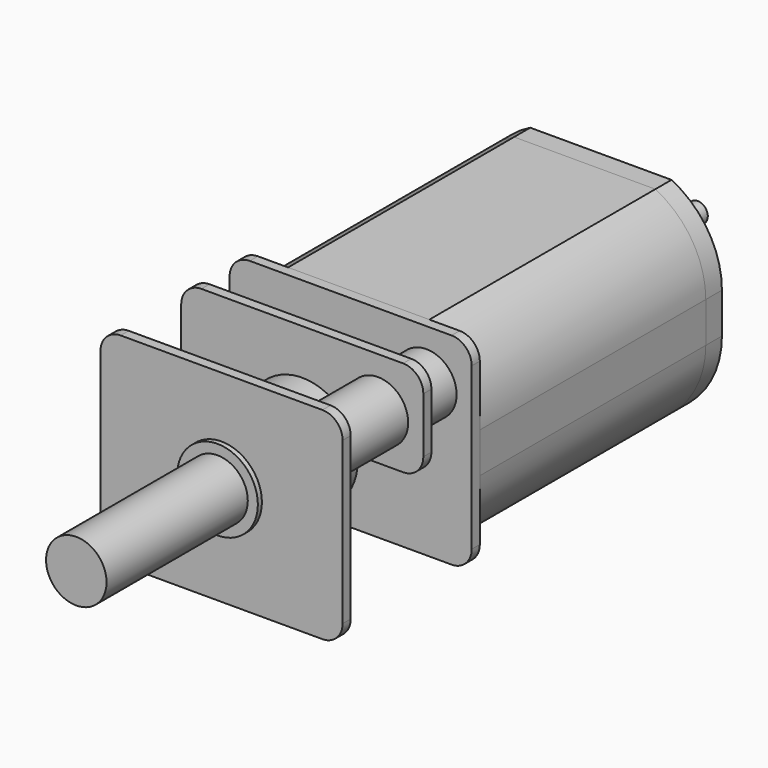
from build123d import *

# Parameters (mm, degrees)
PAD_DEPTH       = 14
POCKET_DEPTH    = 13.5
SKETCH002_R     = 1.5
POCKET001_DEPTH = 14.001
PAD001_DEPTH    = 1
SKETCH004_R     = 2.5
PAD002_DEPTH    = 1
SKETCH005_R     = 1.5
POCKET002_DEPTH = 2.001
SKETCH006_W     = 12
SKETCH006_H     = 10
PAD003_DEPTH    = 0.5
SKETCH007_R     = 1.5
PAD004_DEPTH    = 7.7
SKETCH008_W     = 12
SKETCH008_H     = 10
PAD005_DEPTH    = 0.5
SKETCH009_W     = 12
SKETCH009_H     = 10
PAD006_DEPTH    = 0.5
SKETCH010_R     = 2
PAD007_DEPTH    = 0.25
SKETCH011_R     = 2.5
PAD008_DEPTH    = 3
SKETCH012_R     = 1.5
POCKET003_DEPTH = 5
POCKET004_DEPTH = 1
FILLET_R        = 1
SKETCH014_R     = 1.5
POCKET005_DEPTH = 2
SKETCH015_R     = 1.5
PAD009_DEPTH    = 18
SKETCH016_R     = 1.5
PAD010_DEPTH    = 14
SKETCH017_R     = 2.75
PAD011_DEPTH    = 1.5
SKETCH021_R     = 0.5
PAD014_DEPTH    = 5


with BuildPart() as motorshell:
    # Sketch → Pad (new body)
    with BuildSketch(Plane.XZ):
        with BuildLine():
            Line((-3.5, 5), (3.5, 5))
            ThreePointArc((6, 1), (5.323594, 3.358497), (3.5, 5))
            Line((6, 1), (6, -1))
            ThreePointArc((3.5, -5), (5.323594, -3.358497), (6, -1))
            Line((-3.5, -5), (3.5, -5))
            ThreePointArc((-6, -1), (-5.323594, -3.358496), (-3.5, -5))
            Line((-6, 1), (-6, -1))
            ThreePointArc((-3.5, 5), (-5.323594, 3.358496), (-6, 1))
        make_face()
    extrude(amount=PAD_DEPTH)

    # Sketch001 → Pocket (cut)
    with BuildSketch(Plane.XZ):
        with BuildLine():
            Line((-3, 4.5), (3, 4.5))
            ThreePointArc((5.5, 1), (4.810812, 3.15058), (3, 4.5))
            Line((5.5, 1), (5.5, -1))
            ThreePointArc((3, -4.5), (4.810812, -3.15058), (5.5, -1))
            Line((-3, -4.5), (3, -4.5))
            ThreePointArc((-5.5, -1), (-4.810812, -3.15058), (-3, -4.5))
            Line((-5.5, -1), (-5.5, 1))
            ThreePointArc((-3, 4.5), (-4.810812, 3.15058), (-5.5, 1))
        make_face()
    extrude(amount=POCKET_DEPTH, mode=Mode.SUBTRACT)

    # Sketch002 → Pocket001 (cut, through all)
    with BuildSketch(Plane.XZ):
        Circle(SKETCH002_R)
    extrude(amount=POCKET001_DEPTH, mode=Mode.SUBTRACT)


with BuildPart() as backplate:
    # Sketch003 → Pad001 (new body)
    with BuildSketch(Plane.XZ):
        with BuildLine():
            Line((-3.5, 5), (3.5, 5))
            ThreePointArc((6, 1), (5.323593, 3.358495), (3.5, 5))
            Line((6, 1), (6, -1))
            ThreePointArc((3.5, -5), (5.323593, -3.358495), (6, -1))
            Line((3.5, -5), (-3.5, -5))
            ThreePointArc((-6, -1), (-5.323593, -3.358495), (-3.5, -5))
            Line((-6, -1), (-6, 1))
            ThreePointArc((-3.5, 5), (-5.323593, 3.358495), (-6, 1))
        make_face()
    extrude(amount=-PAD001_DEPTH)

    # Sketch004 (on Face10 of Pad001) → Pad002 (join)
    with BuildSketch(Plane(origin=(0, 1, 0), x_dir=(1, 0, 0), z_dir=(0, 1, 0))):
        Circle(SKETCH004_R)
    extrude(amount=PAD002_DEPTH)

    # Sketch005 (on Face12 of Pad002) → Pocket002 (cut, through all)
    with BuildSketch(Plane(origin=(0, 2, 0), x_dir=(1, 0, 0), z_dir=(0, 1, 0))):
        Circle(SKETCH005_R)
    extrude(amount=-POCKET002_DEPTH, mode=Mode.SUBTRACT)


with BuildPart() as gearplates:
    # Sketch006 (on DatumPlane) → Pad003 (new body)
    with BuildSketch(Plane.XZ.offset(14)):
        Rectangle(SKETCH006_W, SKETCH006_H)
    extrude(amount=PAD003_DEPTH)

    # Sketch007 (on Face6 of Pad003) → Pad004 (join)
    with BuildSketch(Plane.XZ.offset(14.5)):
        with Locations((3.75, 2.5)):
            Circle(SKETCH007_R)
        with Locations((-3.75, -2.5)):
            Circle(SKETCH007_R)
    extrude(amount=PAD004_DEPTH)

    # Sketch008 (on DatumPlane) → Pad005 (join)
    with BuildSketch(Plane.XZ.offset(17)):
        Rectangle(SKETCH008_W, SKETCH008_H)
    extrude(amount=PAD005_DEPTH)

    # Sketch009 (on DatumPlane) → Pad006 (join)
    with BuildSketch(Plane.XZ.offset(22)):
        Rectangle(SKETCH009_W, SKETCH009_H)
    extrude(amount=PAD006_DEPTH)

    # Sketch010 (on Face22 of Pad006) → Pad007 (join)
    with BuildSketch(Plane.XZ.offset(22.5)):
        Circle(SKETCH010_R)
    extrude(amount=PAD007_DEPTH)

    # Sketch011 (on Face17 of Pad007) → Pad008 (join)
    with BuildSketch(Plane(origin=(0, -22, 0), x_dir=(1, 0, 0), z_dir=(0, 1, 0))):
        Circle(SKETCH011_R)
    extrude(amount=PAD008_DEPTH)

    # Sketch012 (on Face26 of Pad008) → Pocket003 (cut)
    with BuildSketch(Plane.XZ.offset(22.75)):
        Circle(SKETCH012_R)
    extrude(amount=-POCKET003_DEPTH, mode=Mode.SUBTRACT)

    # Sketch013 (on Face14 of Pocket003) → Pocket004 (cut)
    with BuildSketch(Plane.XZ.offset(17.5)):
        with BuildLine():
            Line((7.000018, 0.25), (7.000018, -6))
            Line((7.000018, -6), (0.75, -6))
            Line((0.75, -2), (0.75, -6))
            ThreePointArc((3.000018, 0.25), (1.409016, -0.409003), (0.75, -2))
            Line((3.000018, 0.25), (7.000018, 0.25))
        make_face()
    extrude(amount=-POCKET004_DEPTH, mode=Mode.SUBTRACT)

    # Fillet
    fillet_edges = [gearplates.edges().sort_by_distance(p)[0] for p in [
        (6, -22.25, 5),
        (6, -17.25, 5),
        (6, -14.25, 5),
        (-6, -22.25, 5),
        (-6, -17.25, 5),
        (-6, -14.25, 5),
        (-6, -22.25, -5),
        (-6, -17.25, -5),
        (-6, -14.25, -5),
        (6, -22.25, -5),
        (6, -14.25, -5),
        (6, -17.25, 0.25),
        (0.75, -17.25, -5),
    ]]
    fillet(fillet_edges, radius=FILLET_R)

    # Sketch014 (on Face2 of Fillet) → Pocket005 (cut)
    with BuildSketch(Plane(origin=(0, -14, 0), x_dir=(1, 0, 0), z_dir=(0, 1, 0))):
        Circle(SKETCH014_R)
    extrude(amount=-POCKET005_DEPTH, mode=Mode.SUBTRACT)


with BuildPart() as motorshaft:
    # Sketch015 (on DatumPlane) → Pad009 (new body)
    with BuildSketch(Plane.XZ.offset(-2)):
        Circle(SKETCH015_R)
    extrude(amount=PAD009_DEPTH)


with BuildPart() as wheelshaft:
    # Sketch016 (on DatumPlane) → Pad010 (new body)
    with BuildSketch(Plane.XZ.offset(17.5)):
        Circle(SKETCH016_R)
    extrude(amount=PAD010_DEPTH)

    # Sketch017 (on DatumPlane) → Pad011 (join)
    with BuildSketch(Plane.XZ.offset(17.5)):
        Circle(SKETCH017_R)
    extrude(amount=PAD011_DEPTH)


with BuildPart() as extendedbackshaft:
    # Sketch021 (on Face1 of CopyPad009) → Pad014 (new body)
    with BuildSketch(Plane(origin=(0, 2, 0), x_dir=(-1, 0, 0), z_dir=(0, 1, 0))):
        Circle(SKETCH021_R)
    extrude(amount=PAD014_DEPTH)


solid = Compound([motorshell.part, backplate.part, gearplates.part, motorshaft.part, wheelshaft.part, extendedbackshaft.part])
